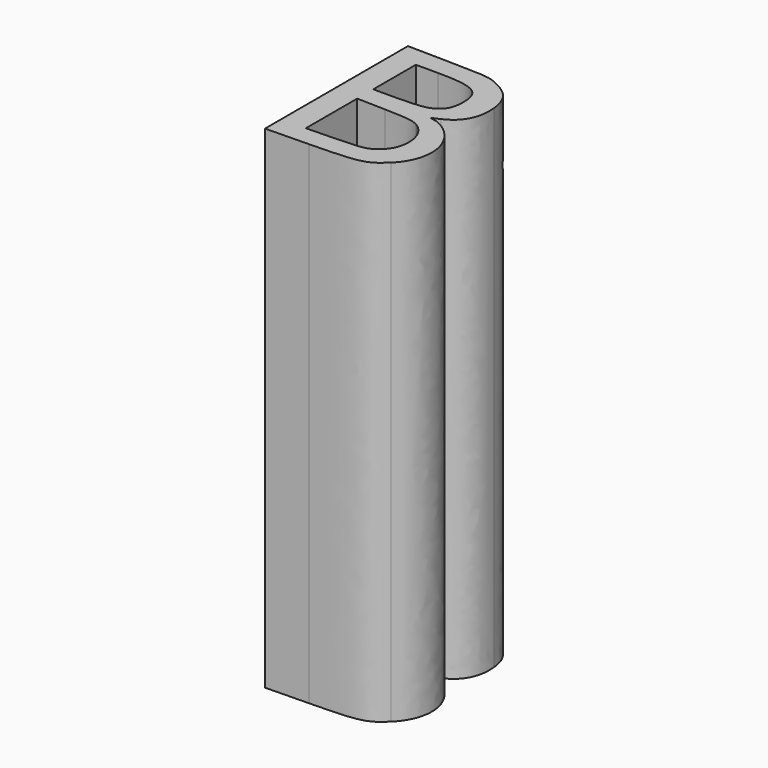
from build123d import *

# Parameters (mm, degrees)
PAD001_DEPTH    = 10
POCKET_DEPTH    = 10.001
POCKET001_DEPTH = 10.001


with BuildPart() as part:
    # Sketch009 → Pad001 (new body)
    with BuildSketch(Plane.XY):
        with BuildLine():
            add(Edge.make_bspline(
                [(0, -1.849196), (0, -0.034171)],
                knots=[0, 0, 6.43119, 6.43119], degree=1))
            add(Edge.make_bspline(
                [(0, -0.034171), (0.841544, -0.048254)],
                knots=[0, 0, 2.982267, 2.982267], degree=1))
            add(Edge.make_bspline(
                [(0.841544, -0.048254), (1.669189, -0.062111), (1.687071, -0.064285), (1.924166, -0.180713)],
                knots=[0, 0, 0, 0, 1, 1, 1, 1], degree=3))
            add(Edge.make_bspline(
                [(1.924166, -0.180713), (2.2246, -0.328239), (2.3645, -0.523607), (2.397303, -0.84144)],
                knots=[0, 0, 0, 0, 1, 1, 1, 1], degree=3))
            add(Edge.make_bspline(
                [(2.397303, -0.84144), (2.438256, -1.238239), (2.295169, -1.519628), (1.979351, -1.663384)],
                knots=[0, 0, 0, 0, 1, 1, 1, 1], degree=3))
            add(Edge.make_bspline(
                [(1.979351, -1.663384), (1.818476, -1.736609)],
                knots=[0, 0, 0.626302, 0.626302], degree=1))
            add(Edge.make_bspline(
                [(1.818476, -1.736609), (1.952851, -1.766124)],
                knots=[0, 0, 0.48748, 0.48748], degree=1))
            add(Edge.make_bspline(
                [(1.952851, -1.766124), (2.026759, -1.782352), (2.162852, -1.863818), (2.255283, -1.947153)],
                knots=[0, 0, 0, 0, 1, 1, 1, 1], degree=3))
            add(Edge.make_bspline(
                [(2.255283, -1.947153), (2.675938, -2.326397), (2.692169, -2.936934), (2.291915, -3.324947)],
                knots=[0, 0, 0, 0, 1, 1, 1, 1], degree=3))
            add(Edge.make_bspline(
                [(2.291915, -3.324947), (2.007164, -3.600986), (1.898949, -3.625672), (0.883102, -3.646294)],
                knots=[0, 0, 0, 0, 1, 1, 1, 1], degree=3))
            add(Edge.make_bspline(
                [(0.883102, -3.646294), (0, -3.664215)],
                knots=[0, 0, 3.129744, 3.129744], degree=1))
            add(Edge.make_bspline(
                [(0, -3.664215), (0, -1.849196)],
                knots=[0, 0, 6.43117, 6.43117], degree=1))
        make_face()
    extrude(amount=PAD001_DEPTH)

    # Sketch010 (on Face14 of Pad001) → Pocket (cut, through all)
    with BuildSketch(Plane.XY.offset(10)):
        with BuildLine():
            add(Edge.make_bspline(
                [(1.786983, -3.136194), (1.866979, -3.089704), (1.965133, -2.986848), (2.005096, -2.907625)],
                knots=[0, 0, 0, 0, 1, 1, 1, 1], degree=3))
            add(Edge.make_bspline(
                [(2.005096, -2.907625), (2.157451, -2.605611), (2.057265, -2.215594), (1.786983, -2.05852)],
                knots=[0, 0, 0, 0, 1, 1, 1, 1], degree=3))
            add(Edge.make_bspline(
                [(1.786983, -2.05852), (1.664183, -1.987158), (1.55253, -1.971754), (1.070113, -1.959618)],
                knots=[0, 0, 0, 0, 1, 1, 1, 1], degree=3))
            add(Edge.make_bspline(
                [(1.070113, -1.959618), (0.498692, -1.945253)],
                knots=[0, 0, 2.02536, 2.02536], degree=1))
            add(Edge.make_bspline(
                [(0.498692, -1.945253), (0.498692, -2.597367)],
                knots=[0, 0, 2.31064, 2.31064], degree=1))
            add(Edge.make_bspline(
                [(0.498692, -2.597367), (0.498692, -3.249484)],
                knots=[0, 0, 2.31065, 2.31065], degree=1))
            add(Edge.make_bspline(
                [(0.498692, -3.249484), (1.070113, -3.235119)],
                knots=[0, 0, 2.02536, 2.02536], degree=1))
            add(Edge.make_bspline(
                [(1.070113, -3.235119), (1.55253, -3.222983), (1.664183, -3.207574), (1.786983, -3.136214)],
                knots=[0, 0, 0, 0, 1, 1, 1, 1], degree=3))
            add(Edge.make_bspline(
                [(1.786983, -3.136214), (1.786983, -3.136194)],
                knots=[0, 0, 7e-05, 7e-05], degree=1))
        make_face()
    extrude(amount=-POCKET_DEPTH, mode=Mode.SUBTRACT)

    # Sketch007 (on Face14 of Pad001) → Pocket001 (cut, through all)
    with BuildSketch(Plane.XY.offset(10)):
        with BuildLine():
            add(Edge.make_bspline(
                [(1.540722, -1.49591), (1.788411, -1.427102), (1.890878, -1.281218), (1.890878, -0.997385)],
                knots=[0, 0, 0, 0, 1, 1, 1, 1], degree=3))
            add(Edge.make_bspline(
                [(1.890878, -0.997385), (1.890878, -0.567038), (1.699553, -0.457759), (0.945439, -0.457367)],
                knots=[0, 0, 0, 0, 1, 1, 1, 1], degree=3))
            add(Edge.make_bspline(
                [(0.945439, -0.457367), (0.498692, -0.457135)],
                knots=[0, 0, 1.58296, 1.58296], degree=1))
            add(Edge.make_bspline(
                [(0.498692, -0.457135), (0.498692, -0.997387)],
                knots=[0, 0, 1.91428, 1.91428], degree=1))
            add(Edge.make_bspline(
                [(0.498692, -0.997387), (0.498692, -1.537637)],
                knots=[0, 0, 1.91427, 1.91427], degree=1))
            add(Edge.make_bspline(
                [(0.498692, -1.537637), (0.945439, -1.537389)],
                knots=[0, 0, 1.58296, 1.58296], degree=1))
            add(Edge.make_bspline(
                [(0.945439, -1.537389), (1.19115, -1.537262), (1.459024, -1.518593), (1.540722, -1.495893)],
                knots=[0, 0, 0, 0, 1, 1, 1, 1], degree=3))
            add(Edge.make_bspline(
                [(1.540722, -1.495893), (1.540722, -1.49591)],
                knots=[0, 0, 6e-05, 6e-05], degree=1))
        make_face()
    extrude(amount=-POCKET001_DEPTH, mode=Mode.SUBTRACT)


solid = part.part
